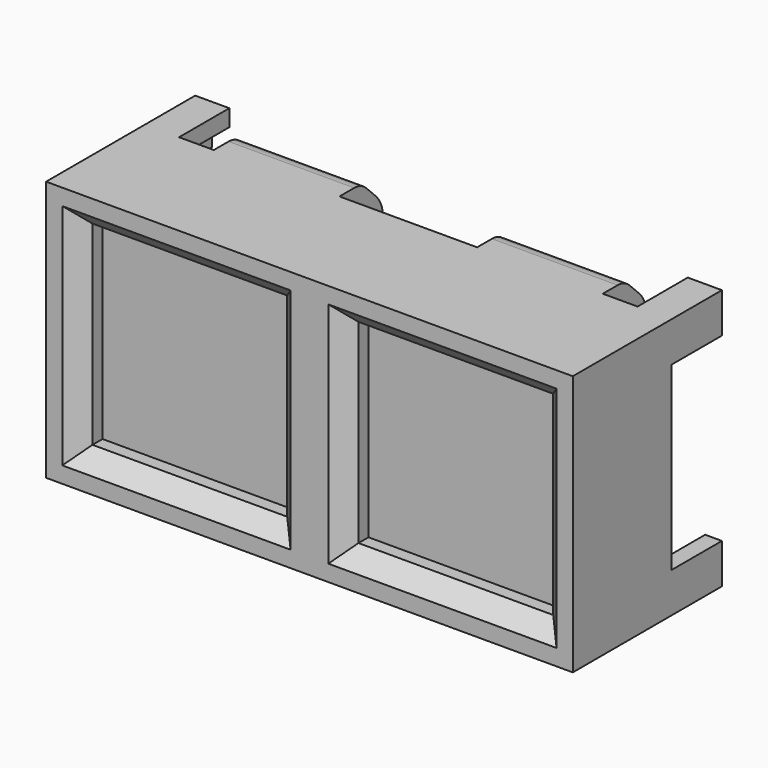
from build123d import *

# Parameters (mm, degrees)
SKETCH013_W     = 25.15
SKETCH013_H     = 12.45
PAD001_DEPTH    = 5.9
SKETCH018_W     = 9.3
SKETCH018_H     = 9.3
POCKET008_DEPTH = 1.4
CHAMFER_SIZE    = 0.8
PAD003_DEPTH    = 3
SKETCH007_W     = 6
SKETCH007_H     = 3
PAD004_DEPTH    = 2.6
SKETCH008_R     = 1.5
PAD005_DEPTH    = 2
FILLET004_R     = 0.5
CHAMFER003_SIZE = 1.3
FILLET005_R     = 1.5
FILLET003_R     = 1
SKETCH009_W     = 6
SKETCH009_H     = 1.6
POCKET006_DEPTH = 1.8
SKETCH010_W     = 6
SKETCH010_H     = 1.6
POCKET007_DEPTH = 1.8
SKETCH014_W     = 1.6
SKETCH014_H     = 6
POCKET005_DEPTH = 1.8


with BuildPart() as part:
    # Sketch013 → Pad001 (new body)
    with BuildSketch(Plane.XZ):
        Rectangle(SKETCH013_W, SKETCH013_H)
    extrude(amount=PAD001_DEPTH)

    # Sketch018 (on Face6 of Pad001) → Pocket008 (cut)
    with BuildSketch(Plane.XZ.offset(5.9)):
        with Locations((-6.35, 0)):
            Rectangle(SKETCH018_W, SKETCH018_H)
        with Locations((6.35, 0)):
            Rectangle(SKETCH018_W, SKETCH018_H)
    extrude(amount=-POCKET008_DEPTH, mode=Mode.SUBTRACT)

    # Chamfer
    chamfer_edges = [part.edges().sort_by_distance(p)[0] for p in [
        (-6.35, -5.9, 4.65),
        (-11, -5.9, 0),
        (-6.35, -5.9, -4.65),
        (-1.7, -5.9, 0),
        (1.7, -5.9, 0),
        (6.35, -5.9, 4.65),
        (11, -5.9, 0),
        (6.35, -5.9, -4.65),
    ]]
    chamfer(chamfer_edges, length=CHAMFER_SIZE)

    # Sketch015 (on Face18 of Chamfer) → Pad003 (join)
    with BuildSketch(Plane(origin=(0, 0, 0), x_dir=(1, 0, 0), z_dir=(0, 1, 0))):
        Polygon((12.575, -4.315), (12.575, -6.225), (10.945, -6.225), (10.945, -5.425), (11.775, -5.425), (11.775, -4.315), align=None)
        Polygon((-10.945, -6.225), (-12.575, -6.225), (-12.575, -4.315), (-11.775, -4.315), (-11.775, -5.425), (-10.945, -5.425), align=None)
        Polygon((12.575, 4.315), (12.575, 6.225), (10.945, 6.225), (10.945, 5.425), (11.775, 5.425), (11.775, 4.315), align=None)
        Polygon((-11.775, 4.315), (-11.775, 5.425), (-10.945, 5.425), (-10.945, 6.225), (-12.575, 6.225), (-12.575, 4.315), align=None)
    extrude(amount=PAD003_DEPTH)

    # Sketch007 (on Face19 of Pad003) → Pad004 (join)
    with BuildSketch(Plane(origin=(0, 0, 0), x_dir=(1, 0, 0), z_dir=(0, 1, 0))):
        with Locations((-6.2875, 4.725)):
            Rectangle(SKETCH007_W, SKETCH007_H)
        with Locations((6.2875, 4.725)):
            Rectangle(SKETCH007_W, SKETCH007_H)
        with Locations((-6.2875, -4.725)):
            Rectangle(SKETCH007_W, SKETCH007_H)
        with Locations((6.2875, -4.725)):
            Rectangle(SKETCH007_W, SKETCH007_H)
    extrude(amount=PAD004_DEPTH)

    # Sketch008 (on Face19 of Pad004) → Pad005 (join)
    with BuildSketch(Plane(origin=(0, 0, 0), x_dir=(1, 0, 0), z_dir=(0, 1, 0))):
        Circle(SKETCH008_R)
    extrude(amount=PAD005_DEPTH)

    # Fillet004
    fillet004_edges = [part.edges().sort_by_distance(p)[0] for p in [
        (-1.5, 2, 0),
    ]]
    fillet(fillet004_edges, radius=FILLET004_R)

    # Chamfer003
    chamfer003_edges = [part.edges().sort_by_distance(p)[0] for p in [
        (6.2875, 2.6, -6.225),
        (-6.2875, 2.6, -6.225),
        (6.2875, 2.6, 6.225),
        (-6.2875, 2.6, 6.225),
    ]]
    chamfer(chamfer003_edges, length=CHAMFER003_SIZE)

    # Fillet005
    fillet005_edges = [part.edges().sort_by_distance(p)[0] for p in [
        (-6.2875, 2.6, 4.925),
        (6.2875, 2.6, 4.925),
        (-6.2875, 2.6, -4.925),
        (6.2875, 2.6, -4.925),
    ]]
    fillet(fillet005_edges, radius=FILLET005_R)

    # Fillet003
    fillet003_edges = [part.edges().sort_by_distance(p)[0] for p in [
        (6.2875, 1.3, -6.225),
        (-6.2875, 1.3, -6.225),
        (6.2875, 1.3, 6.225),
        (-6.2875, 1.3, 6.225),
    ]]
    fillet(fillet003_edges, radius=FILLET003_R)

    # Sketch009 (on Face22 of Fillet003) → Pocket006 (cut)
    with BuildSketch(Plane(origin=(0, 0, 3.225), x_dir=(1, 0, 0), z_dir=(0, 0, -1))):
        with Locations((-6.2875, -0.8)):
            Rectangle(SKETCH009_W, SKETCH009_H)
    extrude(amount=-POCKET006_DEPTH, mode=Mode.SUBTRACT)

    # Sketch010 (on Face25 of Pocket006) → Pocket007 (cut)
    with BuildSketch(Plane(origin=(0, 0, 3.225), x_dir=(1, 0, 0), z_dir=(0, 0, -1))):
        with Locations((6.2875, -0.8)):
            Rectangle(SKETCH010_W, SKETCH010_H)
    extrude(amount=-POCKET007_DEPTH, mode=Mode.SUBTRACT)

    # Sketch014 (on DatumPlane) → Pocket005 (cut)
    with BuildSketch(Plane(origin=(0, 1.3, -3.225), x_dir=(0, 1, 0), z_dir=(0, 0, 1))):
        with Locations((-0.5, 6.2875)):
            Rectangle(SKETCH014_W, SKETCH014_H)
        with Locations((-0.5, -6.2875)):
            Rectangle(SKETCH014_W, SKETCH014_H)
    extrude(amount=-POCKET005_DEPTH, mode=Mode.SUBTRACT)


solid = part.part
